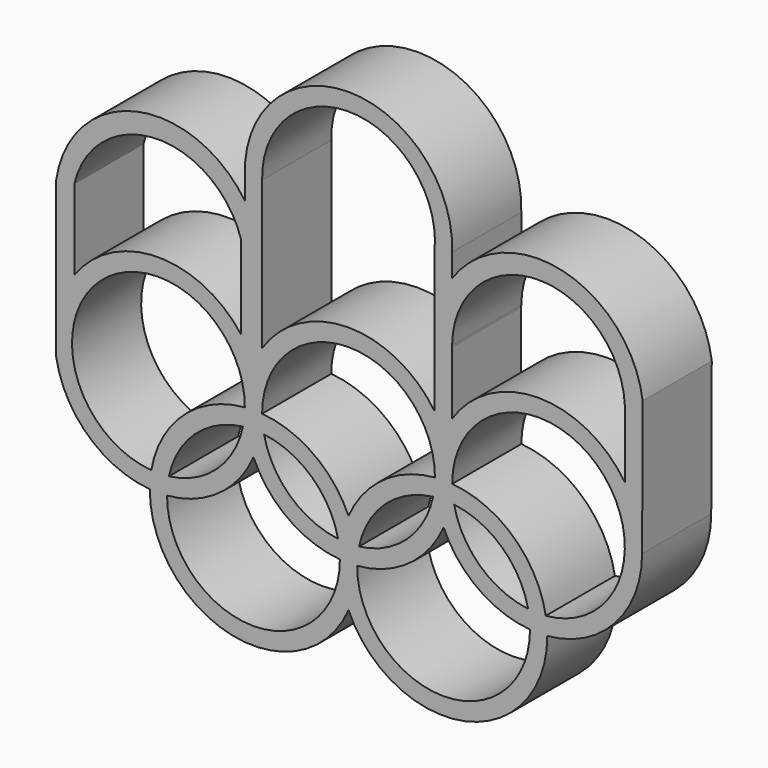
from build123d import *

# Parameters (mm, degrees)
F1_DEPTH = 25


with BuildPart() as f1:
    # F0 (on Front) → F1 (new body)
    with BuildSketch(Plane.XZ):
        with BuildLine():
            ThreePointArc((-29.977737, 52.477247), (-61.508504, 65.006824), (-84.561244, 40.112031))
            Line((-84.561244, 40.112031), (-84.561244, -5.112031))
            ThreePointArc((-84.561244, -5.112031), (-75.261665, -22.123854), (-57.499819, -29.895667))
            ThreePointArc((-57.499819, -29.895667), (-33.669065, -59.35886), (0.004668, -41.978865))
            ThreePointArc((0.004668, -41.978865), (33.690375, -59.336998), (57.501353, -29.857023))
            ThreePointArc((57.501353, -29.857023), (77.031456, -20.271453), (84.929231, 3.5e-05))
            Line((84.929231, 3.5e-05), (85.082121, 38.974539))
            ThreePointArc((85.082121, 38.974539), (62.093064, 64.528697), (29.975545, 52.282199))
            Line((29.975545, 52.282199), (29.97973, 58.897384))
            ThreePointArc((29.97973, 58.897384), (-0.026483, 89.999988), (-29.977737, 58.844456))
            Line((-29.977737, 58.844456), (-29.977737, 52.477247))
        make_face()
        with BuildLine():
            ThreePointArc((-52.499782, -29.895634), (-37.531172, -24.389343), (-27.5, -11.989579))
            ThreePointArc((-27.5, -11.989579), (-17.468828, -24.389343), (-2.500218, -29.895634))
            ThreePointArc((-2.500218, -29.895634), (-27.5, -55), (-52.499782, -29.895634))
        make_face(mode=Mode.SUBTRACT)
        with BuildLine():
            ThreePointArc((-57.06582, -24.914502), (-71.893116, 18.428854), (-30.000218, -0.104366))
            ThreePointArc((-30.000218, -0.104366), (-47.771739, -7.885376), (-57.06582, -24.914502))
        make_face(mode=Mode.SUBTRACT)
        with BuildLine():
            ThreePointArc((-51.956196, -24.814013), (-44.393116, -11.571146), (-30.543804, -5.185987))
            ThreePointArc((-30.543804, -5.185987), (-38.106884, -18.428854), (-51.956196, -24.814013))
        make_face(mode=Mode.SUBTRACT)
        with BuildLine():
            ThreePointArc((-3.043804, -24.814013), (-16.893116, -18.428854), (-24.456196, -5.185987))
            ThreePointArc((-24.456196, -5.185987), (-10.606884, -11.571146), (-3.043804, -24.814013))
        make_face(mode=Mode.SUBTRACT)
        with BuildLine():
            ThreePointArc((-24.999782, -0.104366), (-0.008793, 24.999998), (24.999849, -0.08678))
            ThreePointArc((24.999849, -0.08678), (10.027405, -5.596797), (-0.003054, -18.003419))
            ThreePointArc((-0.003054, -18.003419), (-10.034277, -5.608433), (-24.999782, -0.104366))
        make_face(mode=Mode.SUBTRACT)
        with BuildLine():
            ThreePointArc((2.501765, -29.895504), (17.471102, -24.387714), (27.501614, -11.985875))
            ThreePointArc((27.501614, -11.985875), (37.534897, -24.373797), (52.501331, -29.863173))
            ThreePointArc((52.501331, -29.863173), (27.51778, -54.982279), (2.501765, -29.895504))
        make_face(mode=Mode.SUBTRACT)
        with BuildLine():
            ThreePointArc((3.041611, -24.814282), (10.602538, -11.558896), (24.460003, -5.168002))
            ThreePointArc((24.460003, -5.168002), (16.899076, -18.423388), (3.041611, -24.814282))
        make_face(mode=Mode.SUBTRACT)
        with BuildLine():
            ThreePointArc((51.954881, -24.782502), (38.102344, -18.409101), (30.540719, -5.167695))
            ThreePointArc((30.540719, -5.167695), (44.387786, -11.547068), (51.954881, -24.782502))
        make_face(mode=Mode.SUBTRACT)
        with BuildLine():
            ThreePointArc((30.00015, -0.08651), (71.826887, 18.409146), (57.063881, -24.876173))
            ThreePointArc((57.063881, -24.876173), (47.76502, -7.860024), (30.00015, -0.08651))
        make_face(mode=Mode.SUBTRACT)
        with BuildLine():
            Line((-31.048497, 42.16418), (-31.048497, 18.064481))
            ThreePointArc((-31.048497, 18.064481), (-55.31332, 29.998364), (-79.323589, 17.560269))
            Line((-79.323589, 17.560269), (-79.323589, 40.776075))
            ThreePointArc((-79.323589, 40.776075), (-55.718555, 59.989671), (-31.048497, 42.16418))
        make_face(mode=Mode.SUBTRACT)
        with BuildLine():
            Line((24.859272, 57.35111), (24.859272, 16.79335))
            ThreePointArc((24.859272, 16.79335), (-0.120786, 29.999757), (-24.993691, 16.592631))
            Line((-24.993691, 16.592631), (-24.993691, 59.438392))
            ThreePointArc((-24.993691, 59.438392), (1.045803, 84.978116), (24.859272, 57.35111))
        make_face(mode=Mode.SUBTRACT)
        with BuildLine():
            ThreePointArc((29.965727, 34.764301), (29.964616, 35.000022), (29.965727, 35.235743))
            ThreePointArc((29.965727, 35.235743), (54.603474, 59.997414), (79.946261, 35.95782))
            ThreePointArc((79.946261, 35.95782), (79.964616, 35.000022), (79.946261, 34.042225))
            Line((79.946261, 34.042225), (79.946261, 16.546791))
            ThreePointArc((79.946261, 16.546791), (54.948991, 29.964634), (29.965727, 16.520729))
            Line((29.965727, 16.520729), (29.965727, 34.764301))
        make_face(mode=Mode.SUBTRACT)
    extrude(amount=F1_DEPTH)


solid = f1.part
